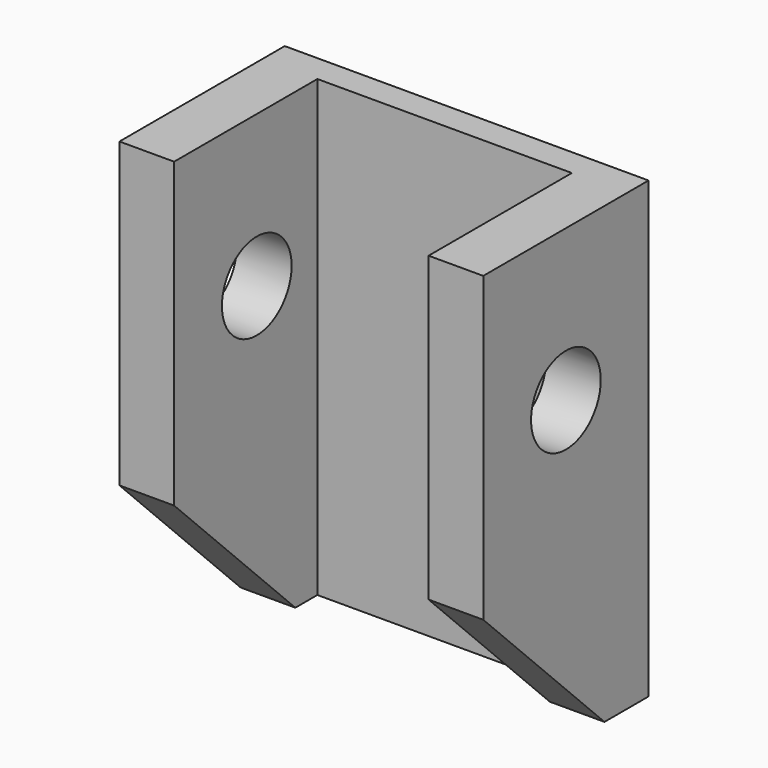
from build123d import *

# Parameters (mm, degrees)
F0_W     = 67.0874267817
F0_H     = 83.7676301599
F1_DEPTH = 38.1
F2_W     = 46.9245351851
F2_H     = 83.7676301599
F3_DEPTH = 33.02
F4_SIZE  = 27.94
F5_SIZE  = 27.94
F6_R     = 8.0338499756
F7_DEPTH = 67.0884267817


with BuildPart() as f1:
    # F0 (on Front) → F1 (new body)
    with BuildSketch(Plane.XZ):
        Rectangle(F0_W, F0_H)
    extrude(amount=F1_DEPTH)

    # F2 (on face) → F3 (cut)
    with BuildSketch(Plane.XZ.offset(38.1)):
        Rectangle(F2_W, F2_H)
    extrude(amount=-F3_DEPTH, mode=Mode.SUBTRACT)

    # F4
    f4_edges = [f1.edges().sort_by_distance(p)[0] for p in [
        (28.50299, -38.1, -41.883815),
    ]]
    chamfer(f4_edges, length=F4_SIZE)

    # F5
    f5_edges = [f1.edges().sort_by_distance(p)[0] for p in [
        (-28.50299, -38.1, -41.883815),
    ]]
    chamfer(f5_edges, length=F5_SIZE)

    # F6 (on face) → F7 (cut, through all)
    with BuildSketch(Plane.YZ.offset(33.5437133908)):
        with Locations((-19.05, 13.97)):
            Circle(F6_R)
    extrude(amount=-F7_DEPTH, mode=Mode.SUBTRACT)


solid = f1.part
